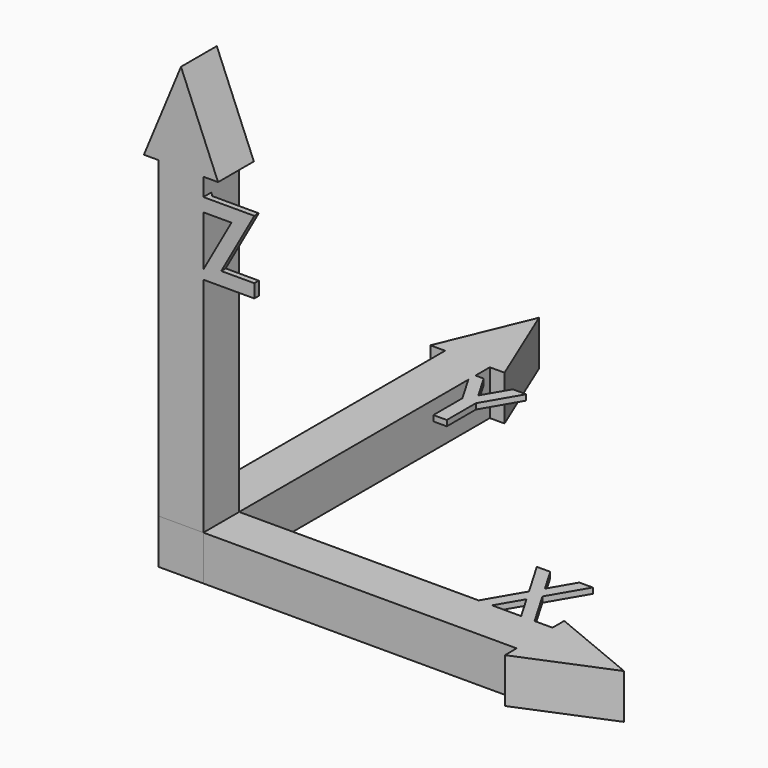
from build123d import *

# Parameters (mm, degrees)
PAD_DEPTH                    = 8
PAD003_DEPTH                 = 1
CHAMFER004002002002002_SIZE  = 0.8
POCKET004_DEPTH              = 6.2
CHAMFER004002002002005_SIZE2 = 0.8
CHAMFER004002002002005_SIZE  = 0.4
PAD001_DEPTH                 = 8
PAD004_DEPTH                 = 1
CHAMFER_SIZE                 = 0.8
POCKET003_DEPTH              = 6.2
CHAMFER004002002002004_SIZE2 = 0.8
CHAMFER004002002002004_SIZE  = 0.4
PAD002_DEPTH                 = 4
PAD005_DEPTH                 = 1
CHAMFER004002002002003_SIZE  = 0.8
POCKET_DEPTH                 = 6.2
CHAMFER004002002002006_SIZE2 = 0.8
CHAMFER004002002002006_SIZE  = 0.4
SKETCH011_W                  = 8
SKETCH011_H                  = 8
PAD006_DEPTH                 = 8
PAD007_DEPTH                 = 6
PAD008_DEPTH                 = 6
PAD009_DEPTH                 = 6
CHAMFER004002002002007_SIZE  = 0.4
CHAMFER004002002002008_SIZE  = 0.4


with BuildPart() as body_x:
    # Sketch → Pad (new body)
    with BuildSketch(Plane.XY):
        Polygon((0, 4), (56, 4), (56, 6.627417), (72, 0), (56, -6.627417), (56, -4), (0, -4), align=None)
    extrude(amount=PAD_DEPTH)

    # Sketch003 → Pad003 (join)
    with BuildSketch(Plane.XY.offset(8)):
        Polygon((52.8, 17), (49, 10.5), (52.8, 4), (50.4, 4), (47.8, 8.447368), (45.2, 4), (42.8, 4), (46.6, 10.5), (42.8, 17), (45.2, 17), (47.8, 12.552632), (50.4, 17), align=None)
    extrude(amount=-PAD003_DEPTH)

    # Chamfer004002002002002
    chamfer004002002002002_edges = [body_x.edges().sort_by_distance(p)[0] for p in [
        (51.6, 4, 7),
        (44, 4, 7),
    ]]
    chamfer(chamfer004002002002002_edges, length=CHAMFER004002002002002_SIZE)

    # Sketch015 (on Face11 of Chamfer004002002002002) → Pocket004 (cut)
    with BuildSketch(Plane(origin=(0, 0, 0), x_dir=(0, -1, 0), z_dir=(-1, 0, 0))):
        with BuildLine():
            Line((2.1, 0), (2.1, 5.2))
            Line((2.1, 5.2), (-1.5, 5.2))
            ThreePointArc((-1.5, 5.2), (-1.983089, 4.955845), (-2.073015, 4.422084))
            Line((-2.073015, 4.422084), (-0.7, 0))
            Line((-0.7, 0), (2.1, 0))
        make_face()
    extrude(amount=-POCKET004_DEPTH, mode=Mode.SUBTRACT)

    # Chamfer004002002002005
    chamfer004002002002005_edges = [body_x.edges().sort_by_distance(p)[0] for p in [
        (0, 1.983089, 4.955845),
        (0, -2.1, 2.6),
    ]]
    chamfer004002002002005_side = body_x.faces().sort_by_distance((0, 2.35, 0.113137))[0]
    chamfer(chamfer004002002002005_edges, length=CHAMFER004002002002005_SIZE, length2=CHAMFER004002002002005_SIZE2, reference=chamfer004002002002005_side)


with BuildPart() as body_x_1:
    # Body placement: moved
    add(body_x.part.moved(Location((4, 0, 0))))


with BuildPart() as body_y:
    # Sketch001 → Pad001 (new body)
    with BuildSketch(Plane.XY):
        Polygon((4, 0), (4, 56), (6.627417, 56), (0, 72), (-6.627417, 56), (-4, 56), (-4, 0), align=None)
    extrude(amount=PAD001_DEPTH)

    # Sketch004 → Pad004 (join)
    with BuildSketch(Plane.XY.offset(8)):
        Polygon((3.064615, 52.8), (6.864615, 46.3), (6.864615, 39.8), (9.264615, 39.8), (9.264615, 46.3), (13.064615, 52.8), (10.664615, 52.8), (8.064615, 48.352632), (5.464615, 52.8), align=None)
    extrude(amount=-PAD004_DEPTH)

    # Chamfer
    chamfer_edges = [body_y.edges().sort_by_distance(p)[0] for p in [
        (4, 52, 7),
    ]]
    chamfer(chamfer_edges, length=CHAMFER_SIZE)

    # Sketch014 (on Face6 of Chamfer) → Pocket003 (cut)
    with BuildSketch(Plane.XZ):
        with BuildLine():
            Line((0.7, 0), (2.073015, 4.422084))
            ThreePointArc((2.073015, 4.422084), (1.983089, 4.955845), (1.5, 5.2))
            Line((1.5, 5.2), (-2.1, 5.2))
            Line((-2.1, 5.2), (-2.1, 0))
            Line((-2.1, 0), (0.7, 0))
        make_face()
    extrude(amount=-POCKET003_DEPTH, mode=Mode.SUBTRACT)

    # Chamfer004002002002004
    chamfer004002002002004_edges = [body_y.edges().sort_by_distance(p)[0] for p in [
        (-0.3, 0, 5.2),
        (-2.1, 0, 2.6),
    ]]
    chamfer004002002002004_side = body_y.faces().sort_by_distance((-3.05, 0, 0.113137))[0]
    chamfer(chamfer004002002002004_edges, length=CHAMFER004002002002004_SIZE, length2=CHAMFER004002002002004_SIZE2, reference=chamfer004002002002004_side)


with BuildPart() as body_y_1:
    # Body001 placement: moved
    add(body_y.part.moved(Location((0, 4, 0))))


with BuildPart() as body_z:
    # Sketch002 → Pad002 (new body, symmetric)
    with BuildSketch(Plane.XZ):
        Polygon((-4, 0), (4, 0), (4, 56), (6.627417, 56), (0, 72), (-6.627417, 56), (-4, 56), align=None)
    extrude(amount=PAD002_DEPTH, both=True)

    # Sketch005 → Pad005 (join)
    with BuildSketch(Plane.XZ.offset(4)):
        Polygon((3.107466, 52.8), (13.107466, 52.8), (7.194428, 42.2), (13.107466, 42.2), (13.107466, 39.8), (3.107466, 39.8), (9.020504, 50.4), (3.107466, 50.4), align=None)
    extrude(amount=-PAD005_DEPTH)

    # Chamfer004002002002003
    chamfer004002002002003_edges = [body_z.edges().sort_by_distance(p)[0] for p in [
        (4, -3, 51.6),
        (4, -3, 40.6),
    ]]
    chamfer(chamfer004002002002003_edges, length=CHAMFER004002002002003_SIZE)

    # Sketch017 (on Face8 of Chamfer004002002002003) → Pocket (cut)
    with BuildSketch(Plane(origin=(0, 0, 0), x_dir=(1, 0, 0), z_dir=(0, 0, -1))):
        Polygon((-2.7, 2.7), (2.7, 2.7), (2.7, -0.6), (0, -2.7), (-2.7, -0.6), align=None)
    extrude(amount=-POCKET_DEPTH, mode=Mode.SUBTRACT)

    # Chamfer004002002002006
    chamfer004002002002006_edges = [body_z.edges().sort_by_distance(p)[0] for p in [
        (1.35, 1.65, 0),
        (-1.35, 1.65, 0),
        (-2.7, -1.05, 0),
        (0, -2.7, 0),
        (2.7, -1.05, 0),
    ]]
    chamfer004002002002006_side = body_z.faces().sort_by_distance((-3.886863, 0, 0))[0]
    chamfer(chamfer004002002002006_edges, length=CHAMFER004002002002006_SIZE, length2=CHAMFER004002002002006_SIZE2, reference=chamfer004002002002006_side)


with BuildPart() as body_z_1:
    # Body002 placement: moved
    add(body_z.part.moved(Location((0, 0, 8))))


with BuildPart() as body_joint:
    # Sketch011 → Pad006 (new body)
    with BuildSketch(Plane.XY):
        Rectangle(SKETCH011_W, SKETCH011_H)
    extrude(amount=PAD006_DEPTH)

    # Sketch012 (on Face2 of Pad006) → Pad007 (join)
    with BuildSketch(Plane.YZ.offset(4)):
        with BuildLine():
            Line((-2, 0), (-2, 5.1))
            Line((-2, 5.1), (1.5, 5.1))
            ThreePointArc((1.977512, 4.451737), (1.902574, 4.896537), (1.5, 5.1))
            Line((1.977512, 4.451737), (0.595291, 0))
            Line((0.595291, 0), (-2, 0))
        make_face()
    extrude(amount=PAD007_DEPTH)

    # Sketch013 (on Face1 of Pad007) → Pad008 (join)
    with BuildSketch(Plane(origin=(0, 4, 0), x_dir=(-1, 0, 0), z_dir=(0, 1, 0))):
        with BuildLine():
            Line((2, 0), (2, 5.1))
            Line((2, 5.1), (-1.5, 5.1))
            ThreePointArc((-1.5, 5.1), (-1.902574, 4.896537), (-1.977512, 4.451737))
            Line((-1.977512, 4.451737), (-0.595291, 0))
            Line((-0.595291, 0), (2, 0))
        make_face()
    extrude(amount=PAD008_DEPTH)

    # Sketch016 (on Face7 of Pad008) → Pad009 (join)
    with BuildSketch(Plane.XY.offset(8)):
        Polygon((-2.6, -2.6), (-2.6, 0.551092), (0, 2.573314), (2.6, 0.551092), (2.6, -2.6), align=None)
    extrude(amount=PAD009_DEPTH)

    # Chamfer004002002002007
    chamfer004002002002007_edges = [body_joint.edges().sort_by_distance(p)[0] for p in [
        (1.902574, 4, 4.896537),
        (0, -2.6, 8),
        (-2.6, -1.024454, 8),
        (-1.3, 1.562203, 8),
        (-2, 4, 2.55),
        (1.3, 1.562203, 8),
        (2.6, -1.024454, 8),
        (4, -2, 2.55),
        (4, 1.286402, 2.225868),
    ]]
    chamfer(chamfer004002002002007_edges, length=CHAMFER004002002002007_SIZE)

    # Chamfer004002002002008
    chamfer004002002002008_edges = [body_joint.edges().sort_by_distance(p)[0] for p in [
        (10, -2, 2.55),
        (10, -0.25, 5.1),
        (10, 1.902574, 4.896537),
        (10, 1.286402, 2.225868),
        (10, -0.702355, 0),
        (-2, 10, 2.55),
        (-0.25, 10, 5.1),
        (1.902574, 10, 4.896537),
        (1.286402, 10, 2.225868),
        (-0.702355, 10, 0),
        (-2.6, -1.024454, 14),
        (-1.3, 1.562203, 14),
        (1.3, 1.562203, 14),
        (2.6, -1.024454, 14),
        (0, -2.6, 14),
    ]]
    chamfer(chamfer004002002002008_edges, length=CHAMFER004002002002008_SIZE)


solid = Compound([body_x_1.part, body_y_1.part, body_z_1.part, body_joint.part])
